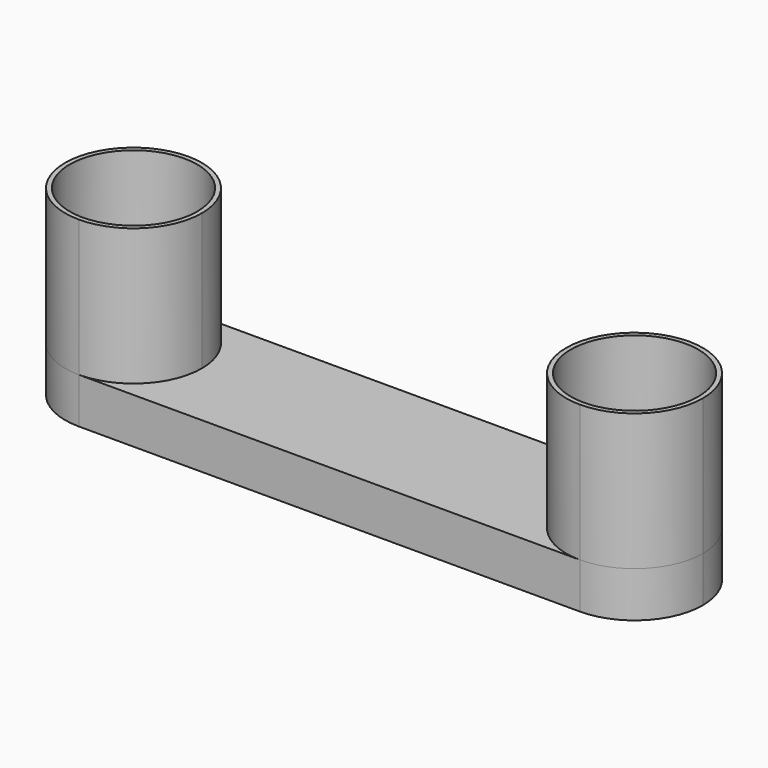
from build123d import *

# Parameters (mm, degrees)
F0_R     = 17.78
F1_DEPTH = 50.8
F2_DEPTH = 12.7


with BuildPart() as f1:
    # F0 (on Top) → F1 (new body)
    with BuildSketch(Plane.XY):
        with BuildLine():
            ThreePointArc((-74.810918, -19.05), (-61.340534, -13.470384), (-55.760918, 0))
            ThreePointArc((-55.760918, 0), (-61.340534, 13.470384), (-74.810918, 19.05))
            ThreePointArc((-74.810918, 19.05), (-93.860918, 0), (-74.810918, -19.05))
        make_face()
        with Locations((-74.810918, 0)):
            Circle(F0_R, mode=Mode.SUBTRACT)
        with BuildLine():
            ThreePointArc((83.939082, 0), (78.359466, 13.470384), (64.889082, 19.05))
            ThreePointArc((64.889082, 19.05), (45.839082, 0), (64.889082, -19.05))
            ThreePointArc((64.889082, -19.05), (78.359466, -13.470384), (83.939082, 0))
        make_face()
        with Locations((64.889082, 0)):
            Circle(F0_R, mode=Mode.SUBTRACT)
    extrude(amount=F1_DEPTH)


with BuildPart() as f2:
    # F0 (on Top) → F2 (new body)
    with BuildSketch(Plane.XY):
        with BuildLine():
            ThreePointArc((-74.810918, -19.05), (-61.340534, -13.470384), (-55.760918, 0))
            ThreePointArc((-55.760918, 0), (-61.340534, 13.470384), (-74.810918, 19.05))
            ThreePointArc((-74.810918, 19.05), (-93.860918, 0), (-74.810918, -19.05))
        make_face()
        with Locations((-74.810918, 0)):
            Circle(F0_R, mode=Mode.SUBTRACT)
        with BuildLine():
            ThreePointArc((-74.810918, 19.05), (-61.340534, 13.470384), (-55.760918, 0))
            ThreePointArc((-55.760918, 0), (-61.340534, -13.470384), (-74.810918, -19.05))
            Line((-74.810918, -19.05), (64.889082, -19.05))
            ThreePointArc((64.889082, -19.05), (45.839082, 0), (64.889082, 19.05))
            Line((64.889082, 19.05), (-74.810918, 19.05))
        make_face()
        with BuildLine():
            ThreePointArc((83.939082, 0), (78.359466, 13.470384), (64.889082, 19.05))
            ThreePointArc((64.889082, 19.05), (45.839082, 0), (64.889082, -19.05))
            ThreePointArc((64.889082, -19.05), (78.359466, -13.470384), (83.939082, 0))
        make_face()
        with Locations((64.889082, 0)):
            Circle(F0_R, mode=Mode.SUBTRACT)
    extrude(amount=F2_DEPTH)


solid = Compound([f1.part, f2.part])
